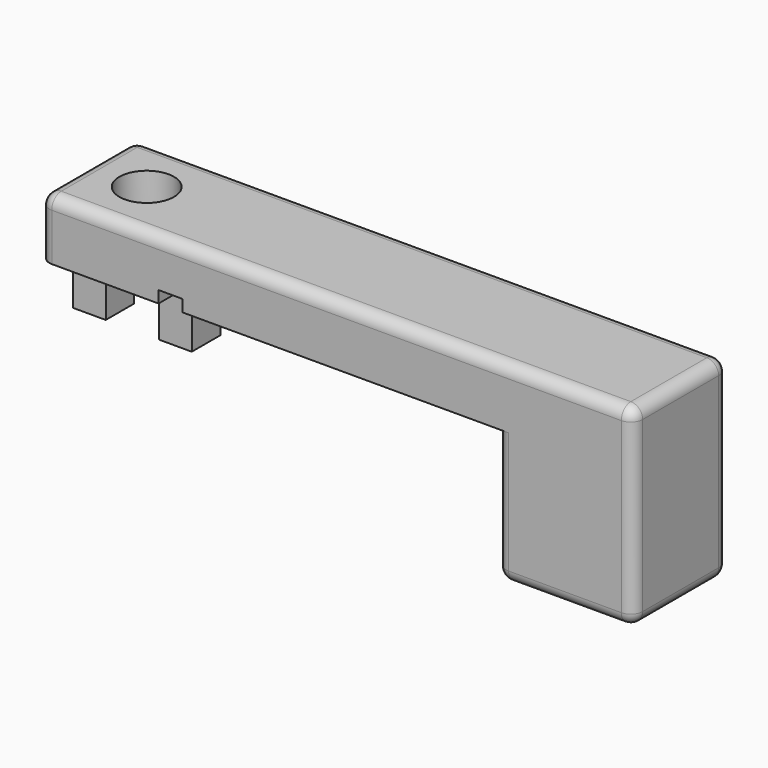
from build123d import *

# Parameters (mm, degrees)
SKETCH010_W             = 100
SKETCH010_H             = 20
SKETCH010_R             = 2.6
PAD005_DEPTH            = 10
SKETCH012_W             = 23
SKETCH012_H             = 20
PAD003_DEPTH            = 22.5
POCKET005_DEPTH         = 10
SKETCH008_R             = 3.5
POCKET004_DEPTH         = 15
POCKET006_DEPTH         = 2
SKETCH013_W             = 5.5
SKETCH013_H             = 6
PAD004_DEPTH            = 10
FILLET002_R             = 2
FILLET003_R             = 1
SKETCH014_R             = 4.6
POCKET007_DEPTH         = 5
BODY001_PLACEMENT_ANGLE = 180


with BuildPart() as part:
    # Sketch010 → Pad005 (new body)
    with BuildSketch(Plane.XY):
        with Locations((50, 10)):
            Rectangle(SKETCH010_W, SKETCH010_H)
        with Locations((10, 10)):
            Circle(SKETCH010_R, mode=Mode.SUBTRACT)
    extrude(amount=PAD005_DEPTH)

    # Sketch012 (on Face7 of Pad005) → Pad003 (join)
    with BuildSketch(Plane.XY.offset(10)):
        with Locations((88.5, 10)):
            Rectangle(SKETCH012_W, SKETCH012_H)
    extrude(amount=PAD003_DEPTH)

    # Sketch009 (on Face11 of Pad003) → Pocket005 (cut)
    with BuildSketch(Plane.XY.offset(32.5)):
        with BuildLine():
            Line((97, 13), (97, 5))
            Line((80, 5), (97, 5))
            Line((80, 5), (80, 13))
            ThreePointArc((97, 13), (88.5, 14.984019), (80, 13))
        make_face()
    extrude(amount=-POCKET005_DEPTH, mode=Mode.SUBTRACT)

    # Sketch008 (on Face17 of Pocket005) → Pocket004 (cut)
    with BuildSketch(Plane.XY.offset(22.5)):
        with Locations((88.5, 10)):
            Circle(SKETCH008_R)
    extrude(amount=-POCKET004_DEPTH, mode=Mode.SUBTRACT)

    # Sketch011 (on Face5 of Pocket004) → Pocket006 (cut)
    with BuildSketch(Plane.XY.offset(10)):
        with BuildLine():
            Line((26.5, 12), (91.5, 12))
            Line((91.5, 12), (91.5, 8))
            Line((91.5, 8), (26.5, 8))
            ThreePointArc((26.5, 8), (24.732233, 7.267767), (24, 5.5))
            Line((24, 5.5), (24, 0))
            Line((24, 0), (20, 0))
            Line((20, 0), (20, 20))
            Line((20, 20), (24, 20))
            Line((24, 20), (24, 14.5))
            ThreePointArc((24, 14.5), (24.732233, 12.732233), (26.5, 12))
        make_face()
    extrude(amount=-POCKET006_DEPTH, mode=Mode.SUBTRACT)

    # Sketch013 → Pad004 (join)
    with BuildSketch(Plane.XY.offset(10)):
        with Locations((2.75, 10)):
            Rectangle(SKETCH013_W, SKETCH013_H)
        with Locations((17.25, 10)):
            Rectangle(SKETCH013_W, SKETCH013_H)
    extrude(amount=PAD004_DEPTH)

    # Fillet002
    fillet002_edges = [part.edges().sort_by_distance(p)[0] for p in [
        (77, 10, 32.5),
        (88.5, 0, 32.5),
        (88.5, 20, 32.5),
        (100, 10, 32.5),
        (100, 10, 0),
        (50, 20, 0),
        (0, 10, 0),
        (50, 0, 0),
        (77, 20, 21.25),
        (77, 0, 21.25),
        (100, 0, 21.25),
        (100, 20, 21.25),
        (0, 20, 5),
        (0, 0, 5),
    ]]
    fillet(fillet002_edges, radius=FILLET002_R)

    # Fillet003
    fillet003_edges = [part.edges().sort_by_distance(p)[0] for p in [
        (0, 18, 6),
        (50.5, 0, 10),
    ]]
    fillet(fillet003_edges, radius=FILLET003_R)

    # Sketch014 (on Face38 of Fillet003) → Pocket007 (cut)
    with BuildSketch(Plane(origin=(0, 0, 0), x_dir=(1, 0, 0), z_dir=(0, 0, -1))):
        with Locations((10, -10)):
            Circle(SKETCH014_R)
    extrude(amount=-POCKET007_DEPTH, mode=Mode.SUBTRACT)


with BuildPart() as part_1:
    # Body001 placement: moved
    add(part.part.moved(Location((0, 20, 320))).rotate(Axis((0, 20, 320), (1, 0, 0)), BODY001_PLACEMENT_ANGLE))


solid = part_1.part
